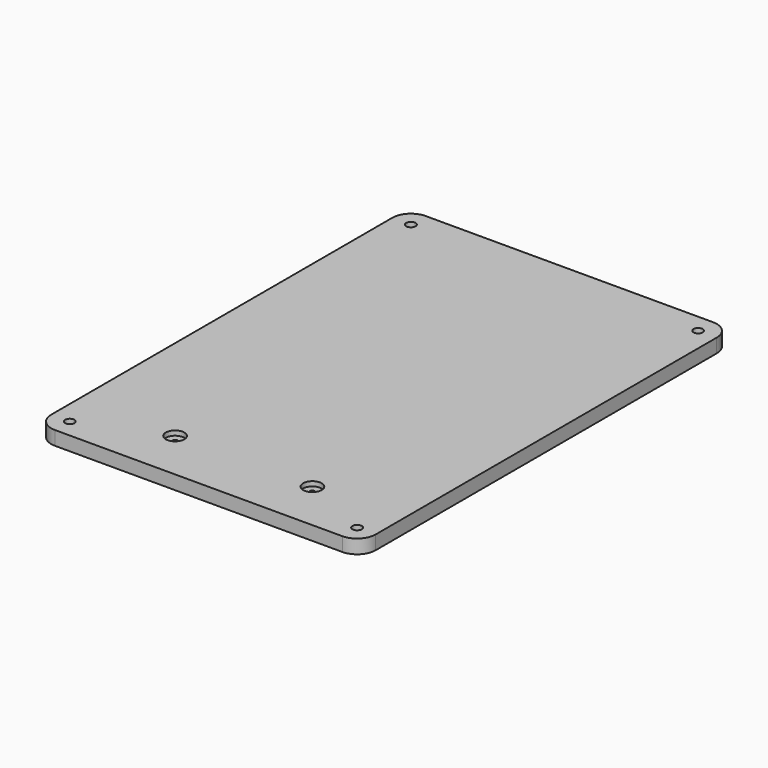
from build123d import *

# Parameters (mm, degrees)
F0_R     = 0.5
F1_DEPTH = 1.5
F2_R     = 1
F3_DEPTH = 0.5
F4_R     = 0.255
F5_DEPTH = 1
F6_R     = 0.255
F7_DEPTH = 1


with BuildPart() as f1:
    # F0 (on Top) → F1 (new body)
    with BuildSketch(Plane.XY):
        with BuildLine():
            ThreePointArc((65, 2), (65.585786, 0.585786), (67, 0))
            Line((67, 0), (98, 0))
            ThreePointArc((98, 0), (99.414214, 0.585786), (100, 2))
            Line((100, 2), (100, 48))
            ThreePointArc((100, 48), (99.414214, 49.414214), (98, 50))
            Line((98, 50), (67, 50))
            ThreePointArc((67, 50), (65.585786, 49.414214), (65, 48))
            Line((65, 48), (65, 2))
        make_face()
        with Locations((67, 2)):
            Circle(F0_R, mode=Mode.SUBTRACT)
        with Locations((98, 2)):
            Circle(F0_R, mode=Mode.SUBTRACT)
        with Locations((67, 48)):
            Circle(F0_R, mode=Mode.SUBTRACT)
        with Locations((98, 48)):
            Circle(F0_R, mode=Mode.SUBTRACT)
    extrude(amount=F1_DEPTH)

    # F2 (on face) → F3 (cut)
    with BuildSketch(Plane.XY.offset(1.5)):
        with Locations((90.389371, 5.483904)):
            Circle(F2_R)
        with Locations((75.572118, 5.483904)):
            Circle(F2_R)
    extrude(amount=-F3_DEPTH, mode=Mode.SUBTRACT)

    # F4 (on face) → F5 (cut)
    with BuildSketch(Plane.XY.offset(1)):
        with Locations((90.389371, 5.483904)):
            Circle(F4_R)
    extrude(amount=-F5_DEPTH, mode=Mode.SUBTRACT)

    # F6 (on face) → F7 (cut)
    with BuildSketch(Plane.XY.offset(1)):
        with Locations((75.572118, 5.483904)):
            Circle(F6_R)
    extrude(amount=-F7_DEPTH, mode=Mode.SUBTRACT)


solid = f1.part
